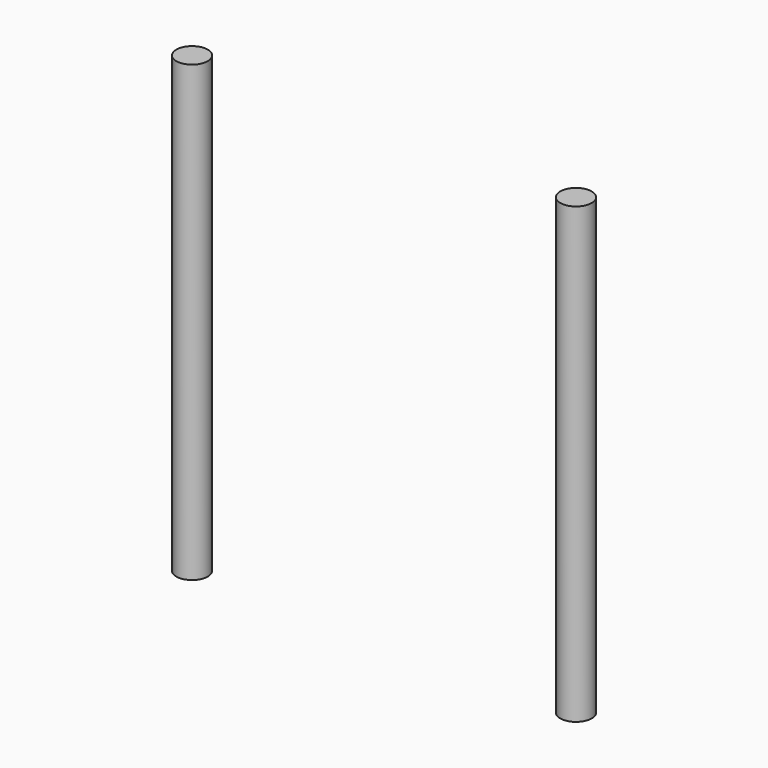
from build123d import *

# Parameters (mm, degrees)
CYLINDER009_R     = 2.25
CYLINDER009_DEPTH = 65
CYLINDER008_R     = 2.25
CYLINDER008_DEPTH = 65


with BuildPart() as cylinder009:
    # Cylinder009 → Cylinder009 (new body)
    with BuildSketch(Plane(origin=(-27.5, 5, 0), x_dir=(1, 0, 0), z_dir=(0, 0, 1))):
        Circle(CYLINDER009_R)
    extrude(amount=CYLINDER009_DEPTH)


with BuildPart() as fusion005:
    # Cylinder008 → Cylinder008 (new body)
    with BuildSketch(Plane(origin=(27.5, 5, 0), x_dir=(1, 0, 0), z_dir=(0, 0, 1))):
        Circle(CYLINDER008_R)
    extrude(amount=CYLINDER008_DEPTH)

    # Fusion005: union Cylinder009
    add(cylinder009.part)


solid = fusion005.part
